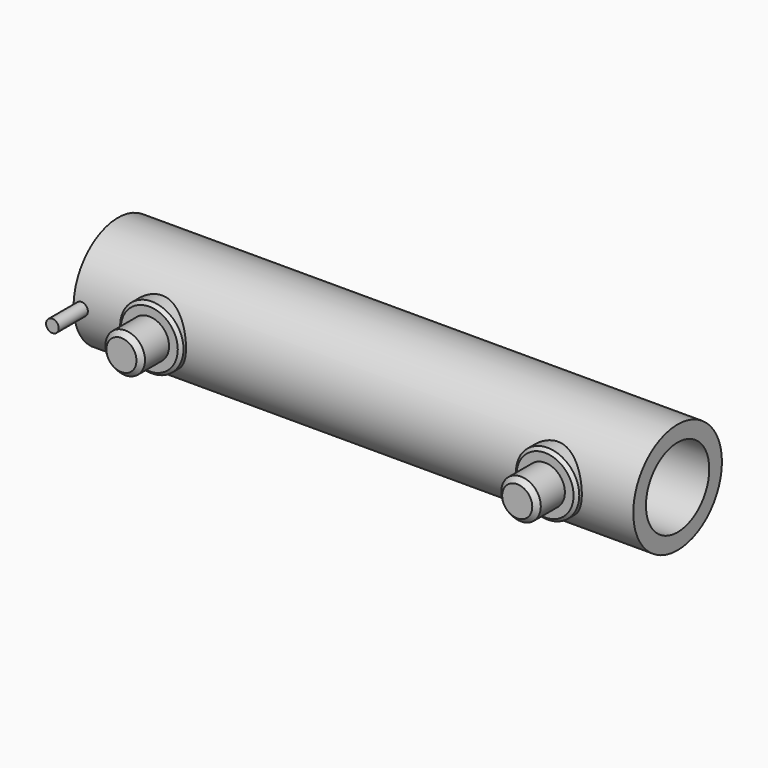
from build123d import *

# Parameters (mm, degrees)
F0_R           = 3.5
F0_R_2         = 2.5
F1_DEPTH       = 34.55
F6_DEPTH       = 0.4
F7_DEPTH       = 0.4
F9_R           = 2
F10_DEPTH      = 0.4
F10_DEPTH_BACK = 1
F11_R          = 1.25
F12_DEPTH      = 2.2
F13_SIZE       = 0.2
F14_SIZE       = 0.3
F5_R           = 0.4
F15_DEPTH      = 2.3


with BuildPart() as f1:
    # F0 (on Right) → F1 (new body)
    with BuildSketch(Plane.YZ):
        Circle(F0_R)
        Circle(F0_R_2, mode=Mode.SUBTRACT)
    extrude(amount=F1_DEPTH)

    # F6 (add): a face of the model
    f6_faces = [f1.faces().sort_by_distance(p)[0] for p in [
        (0, -3.4010050506, 0),
    ]]
    extrude(f6_faces, amount=F6_DEPTH)

    # F7 (add): a face of the model
    f7_faces = [f1.faces().sort_by_distance(p)[0] for p in [
        (34.55, -3.4010050506, 0),
    ]]
    extrude(f7_faces, amount=F7_DEPTH)

    # F9 (on plane+point) → F10 (join, two sides)
    with BuildSketch(Plane.XZ.offset(3.5)) as f10_sk:
        with Locations((4.7, 0)):
            Circle(F9_R)
        with Locations((29.7, 0)):
            Circle(F9_R)
    extrude(amount=F10_DEPTH)
    extrude(f10_sk.sketch, amount=-F10_DEPTH_BACK)

    # F11 (on face) → F12 (join)
    with BuildSketch(Plane.XZ.offset(3.9)):
        with Locations((4.7, 0)):
            Circle(F11_R)
        with Locations((29.7, 0)):
            Circle(F11_R)
    extrude(amount=F12_DEPTH)

    # F13
    f13_edges = [f1.edges().sort_by_distance(p)[0] for p in [
        (2.7, -3.9, 0),
        (27.7, -3.9, 0),
    ]]
    chamfer(f13_edges, length=F13_SIZE)

    # F14
    f14_edges = [f1.edges().sort_by_distance(p)[0] for p in [
        (3.45, -6.1, 0),
        (28.45, -6.1, 0),
    ]]
    chamfer(f14_edges, length=F14_SIZE)


with BuildPart() as f15:
    # F5 (on plane+point) → F15 (new body)
    with BuildSketch(Plane.XZ.offset(3.5)):
        with Locations((0.1, 0)):
            Circle(F5_R)
    extrude(amount=F15_DEPTH)


solid = Compound([f1.part, f15.part])
